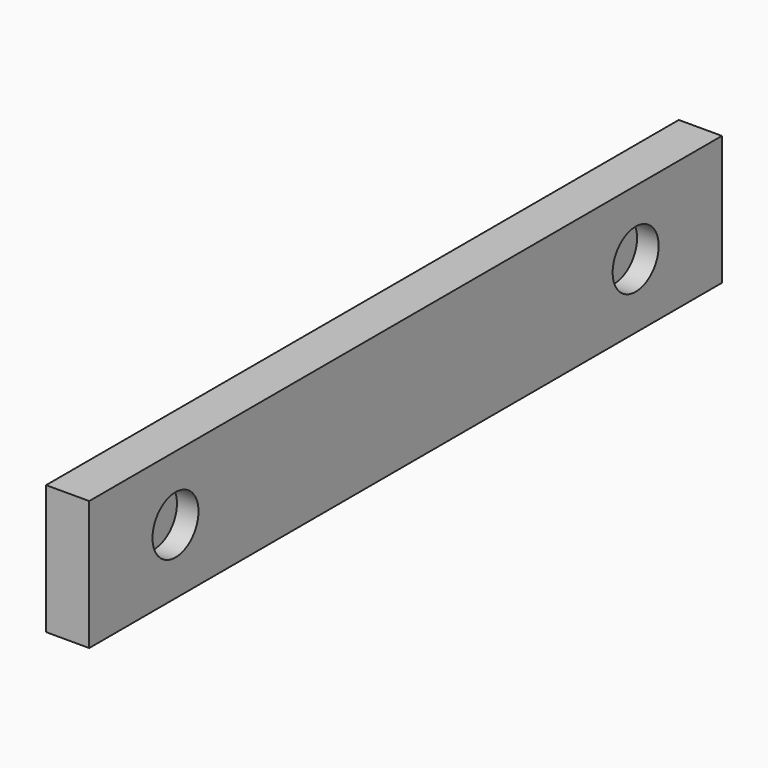
from build123d import *

# Parameters (mm, degrees)
F0_W     = 110
F0_H     = 18
F1_DEPTH = 3
F2_R     = 4
F3_DEPTH = 3


with BuildPart() as f1:
    # F0 (on Right) → F1 (new body, symmetric)
    with BuildSketch(Plane.YZ):
        Rectangle(F0_W, F0_H)
    extrude(amount=F1_DEPTH, both=True)

    # F2 (on face) → F3 (cut)
    with BuildSketch(Plane.YZ.offset(3)):
        with Locations((-40, 0)):
            Circle(F2_R)
        with Locations((40, 0)):
            Circle(F2_R)
    extrude(amount=-F3_DEPTH, mode=Mode.SUBTRACT)


solid = f1.part
